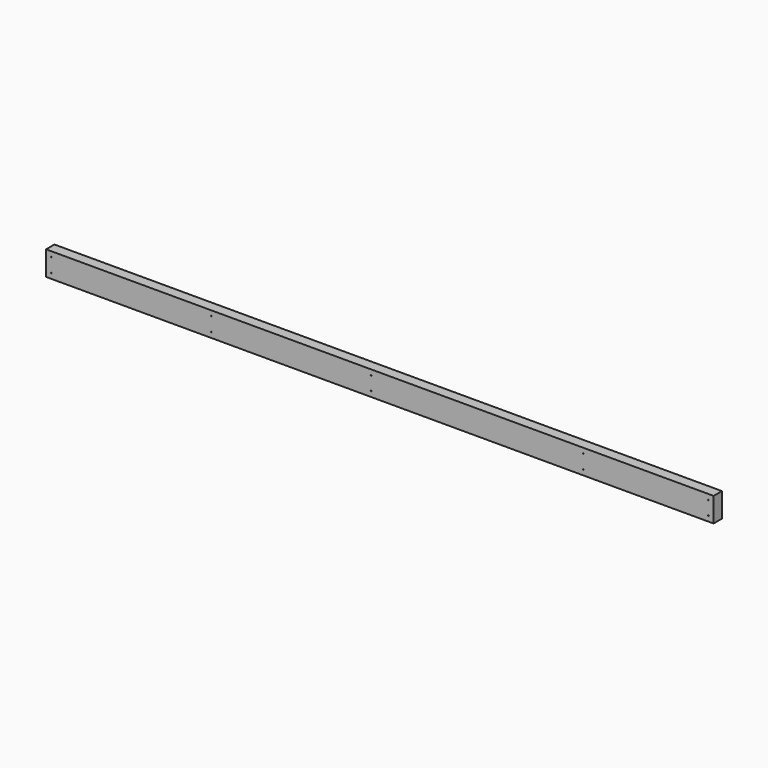
from build123d import *

# Parameters (mm, degrees)
F0_W     = 2438.4
F0_H     = 88.9
F1_DEPTH = 38.1
F2_R     = 1.5875
F3_DEPTH = 38.101
F4_R     = 1.5875
F5_DEPTH = 38.101
F6_R     = 1.5875
F7_DEPTH = 38.101


with BuildPart() as f1:
    # F0 (on Front) → F1 (new body)
    with BuildSketch(Plane.XZ):
        with Locations((1219.2, -44.45)):
            Rectangle(F0_W, F0_H)
    extrude(amount=F1_DEPTH)

    # F2 (on Front) → F3 (cut, through all)
    with BuildSketch(Plane.XZ):
        with Locations((19.05, -19.05)):
            Circle(F2_R)
        with Locations((19.05, -69.85)):
            Circle(F2_R)
        with Locations((2419.35, -19.05)):
            Circle(F2_R)
        with Locations((2419.35, -69.85)):
            Circle(F2_R)
        with Locations((4819.65, -19.05)):
            Circle(F2_R)
        with Locations((4819.65, -69.85)):
            Circle(F2_R)
    extrude(amount=F3_DEPTH, mode=Mode.SUBTRACT)

    # F4 (on Front) → F5 (cut, through all)
    with BuildSketch(Plane.XZ):
        with Locations((1187.45, -19.05)):
            Circle(F4_R)
        with Locations((1187.45, -69.85)):
            Circle(F4_R)
        with Locations((1962.15, -19.05)):
            Circle(F4_R)
        with Locations((1962.15, -69.85)):
            Circle(F4_R)
    extrude(amount=F5_DEPTH, mode=Mode.SUBTRACT)

    # F6 (on Front) → F7 (cut, through all)
    with BuildSketch(Plane.XZ):
        with Locations((603.25, -19.05)):
            Circle(F6_R)
        with Locations((603.25, -69.85)):
            Circle(F6_R)
    extrude(amount=F7_DEPTH, mode=Mode.SUBTRACT)


solid = f1.part
